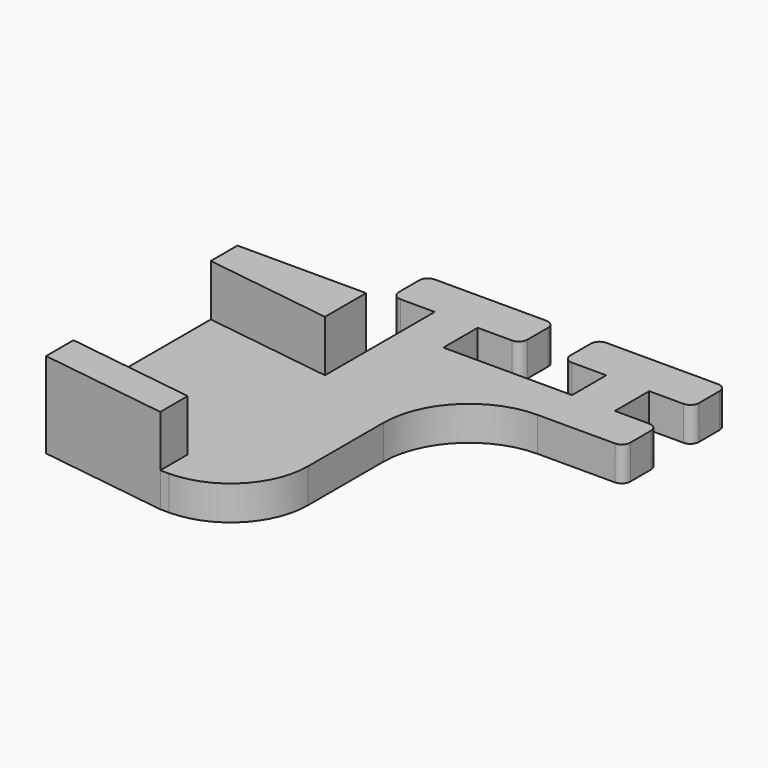
from build123d import *

# Parameters (mm, degrees)
PAD_DEPTH       = 10
POCKET_DEPTH    = 6
POCKET001_DEPTH = 6
POCKET002_DEPTH = 11
FILLET_R        = 1
FILLET001_R     = 10
FILLET002_R     = 9
FILLET003_R     = 1


with BuildPart() as part:
    # Sketch → Pad (new body)
    with BuildSketch(Plane.XY):
        Polygon((-65, 10), (-65, 5), (-60, 5), (-60, -5), (-75, -5), (-75, -35), (-50, -35), (-50, -5), (-30, -5), (-30, 0), (-35, 0), (-35, 5), (-30, 5), (-30, 10), (-45, 10), (-45, 5), (-40, 5), (-40, 0), (-55, 0), (-55, 5), (-50, 5), (-50, 10), align=None)
    extrude(amount=PAD_DEPTH)

    # Sketch001 (on Face24 of Pad) → Pocket (cut)
    with BuildSketch(Plane.XY.offset(10)):
        Polygon((0, 15), (-80, 15), (-80, -5), (-60, -5), (-60, -35), (-50, -35), (-50, -5), (0, -5), align=None)
    extrude(amount=-POCKET_DEPTH, mode=Mode.SUBTRACT)

    # Sketch002 (on Face27 of Pocket) → Pocket001 (cut)
    with BuildSketch(Plane.XY.offset(10)):
        Polygon((-80, -8.189183), (-60, -11), (-60, -31), (-80, -28.189183), align=None)
    extrude(amount=-POCKET001_DEPTH, mode=Mode.SUBTRACT)

    # Sketch003 (on Face29 of Pocket001) → Pocket002 (cut)
    with BuildSketch(Plane.XY.offset(10)):
        Polygon((-60, -35), (-80, -32.189183), (-80, -40), (-60, -40), align=None)
    extrude(amount=-POCKET002_DEPTH, mode=Mode.SUBTRACT)

    # Fillet
    fillet_edges = [part.edges().sort_by_distance(p)[0] for p in [
        (-65, 5, 2),
        (-45, 5, 2),
        (-45, 10, 2),
        (-65, 10, 2),
        (-50, 10, 2),
        (-30, 10, 2),
        (-50, 5, 2),
        (-30, 5, 2),
    ]]
    fillet(fillet_edges, radius=FILLET_R)

    # Fillet001
    fillet001_edges = [part.edges().sort_by_distance(p)[0] for p in [
        (-50, -5, 2),
    ]]
    fillet(fillet001_edges, radius=FILLET001_R)

    # Fillet002
    fillet002_edges = [part.edges().sort_by_distance(p)[0] for p in [
        (-50, -35, 2),
    ]]
    fillet(fillet002_edges, radius=FILLET002_R)

    # Fillet003
    fillet003_edges = [part.edges().sort_by_distance(p)[0] for p in [
        (-30, -5, 2),
        (-30, 0, 2),
    ]]
    fillet(fillet003_edges, radius=FILLET003_R)


solid = part.part
